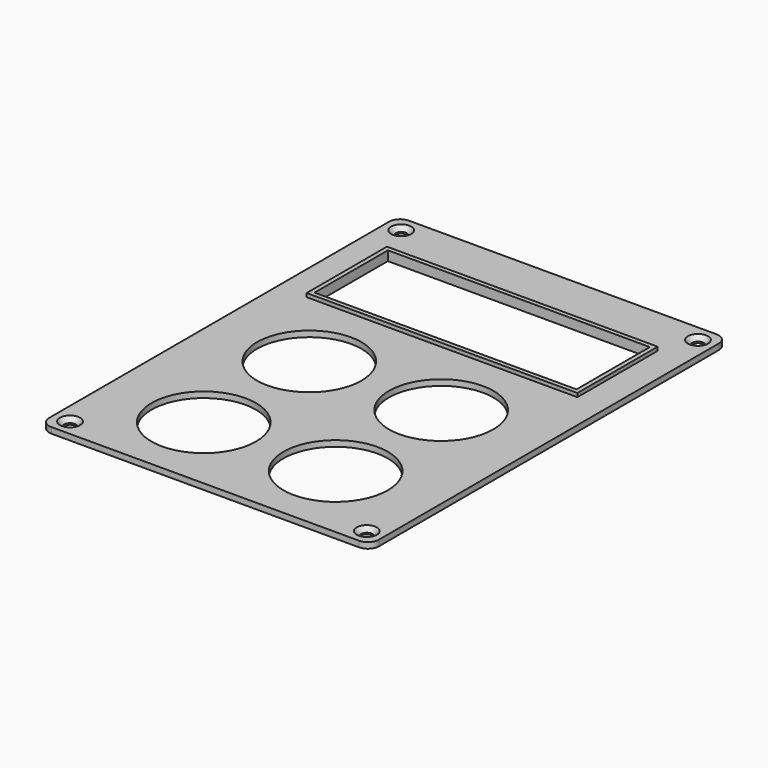
from build123d import *

# Parameters (mm, degrees)
F0_R           = 1.55
F0_R_2         = 14.25
F0_W           = 71.5
F0_H           = 25
F1_DEPTH       = 1.6
F2_W           = 73.9
F2_H           = 27.4
F2_W_2         = 71.5
F2_H_2         = 25
F3_DEPTH       = 1
F5_D           = 3.1
F5_CSINK_D     = 5.5
F5_CSINK_ANGLE = 90


with BuildPart() as f1:
    # F0 (on Top) → F1 (new body)
    with BuildSketch(Plane.XY):
        with BuildLine():
            Line((-42, -94.5), (42, -94.5))
            ThreePointArc((42, -94.5), (44.1213203436, -93.6213203436), (45, -91.5))
            Line((45, -91.5), (45, 24.5))
            ThreePointArc((45, 24.5), (44.1213203436, 26.6213203436), (42, 27.5))
            Line((42, 27.5), (-42, 27.5))
            ThreePointArc((-42, 27.5), (-44.1213203436, 26.6213203436), (-45, 24.5))
            Line((-45, 24.5), (-45, -91.5))
            ThreePointArc((-45, -91.5), (-44.1213203436, -93.6213203436), (-42, -94.5))
        make_face()
        with Locations((-40.5, -90)):
            Circle(F0_R, mode=Mode.SUBTRACT)
        with Locations((-18, -72.5)):
            Circle(F0_R_2, mode=Mode.SUBTRACT)
        with Locations((-18, -36.5)):
            Circle(F0_R_2, mode=Mode.SUBTRACT)
        with Locations((18, -72.5)):
            Circle(F0_R_2, mode=Mode.SUBTRACT)
        with Locations((40.5, -90)):
            Circle(F0_R, mode=Mode.SUBTRACT)
        with Locations((18, -36.5)):
            Circle(F0_R_2, mode=Mode.SUBTRACT)
        with Locations((-40.5, 23)):
            Circle(F0_R, mode=Mode.SUBTRACT)
        Rectangle(F0_W, F0_H, mode=Mode.SUBTRACT)
        with Locations((40.5, 23)):
            Circle(F0_R, mode=Mode.SUBTRACT)
    extrude(amount=F1_DEPTH)

    # F2 (on face) → F3 (join)
    with BuildSketch(Plane.XY.offset(1.6)):
        Rectangle(F2_W, F2_H)
        Rectangle(F2_W_2, F2_H_2, mode=Mode.SUBTRACT)
    extrude(amount=F3_DEPTH)

    # F5 (through all)
    with Locations(Plane.XY.offset(1.6)):
        with Locations((-40.5, 23), (40.5, 23), (-40.5, -90), (40.5, -90)):
            CounterSinkHole(F5_D / 2, F5_CSINK_D / 2, counter_sink_angle=F5_CSINK_ANGLE)


solid = f1.part
